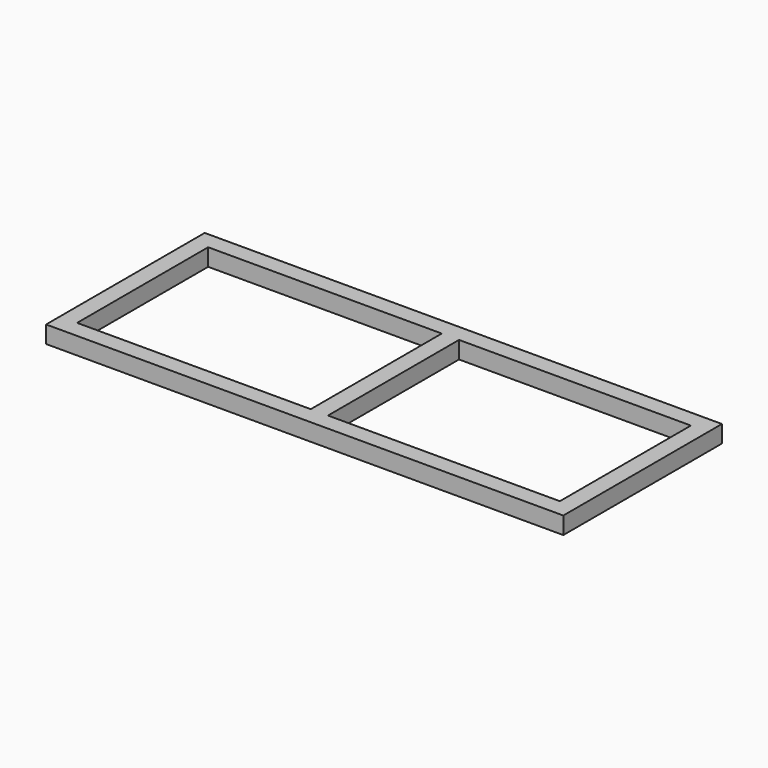
from build123d import *

# Parameters (mm, degrees)
F0_W     = 1200
F0_H     = 460
F1_DEPTH = 40
F2_W     = 542.031429
F2_H     = 380
F2_W_2   = 537.968571
F3_DEPTH = 40.001


with BuildPart() as f1:
    # F0 (on Top) → F1 (new body)
    with BuildSketch(Plane.XY):
        with Locations((-398.673499, -332.412798)):
            Rectangle(F0_W, F0_H)
    extrude(amount=F1_DEPTH)

    # F2 (on face) → F3 (cut, through all)
    with BuildSketch(Plane.XY.offset(40)):
        with Locations((-687.657784, -332.412798)):
            Rectangle(F2_W, F2_H)
        with Locations((-107.657785, -332.412798)):
            Rectangle(F2_W_2, F2_H)
    extrude(amount=-F3_DEPTH, mode=Mode.SUBTRACT)


solid = f1.part
